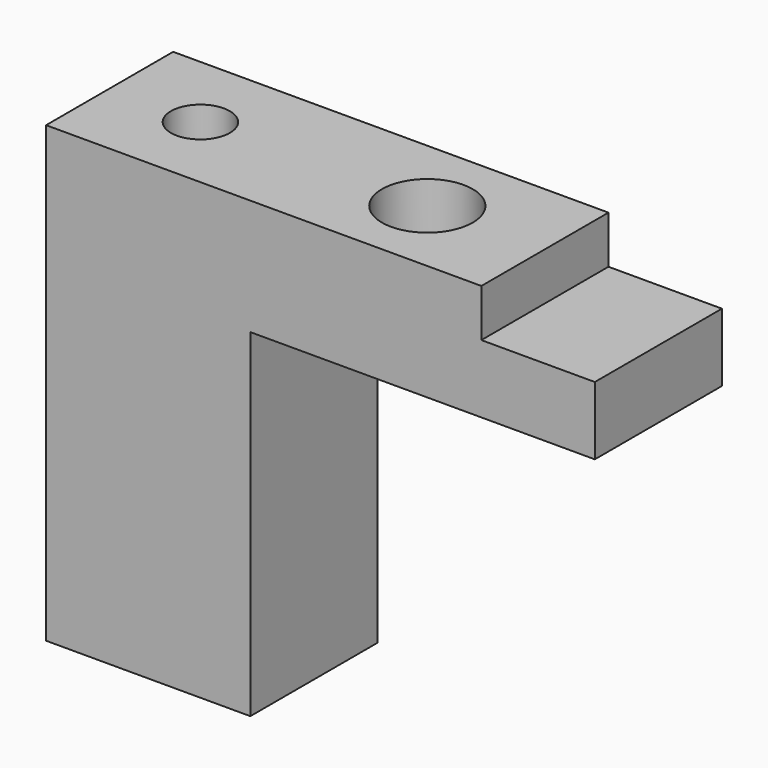
from build123d import *

# Parameters (mm, degrees)
PAD025_DEPTH      = 3.5
PAD025_DEPTH_BACK = 3.5
SKETCH047_R       = 2
SKETCH047_R_2     = 1.3
POCKET_DEPTH      = 8
SKETCH049_R       = 1.3
POCKET001_DEPTH   = 8


with BuildPart() as part:
    # Sketch → Pad025 (new body, two sides)
    with BuildSketch(Plane.XZ) as pad025_sk:
        Polygon((-58.82, -4.5), (-58.82, -6.6), (-53.82, -6.6), (-53.82, -9.6), (-69, -9.6), (-69, -24.5), (-78, -24.5), (-78, -4.5), align=None)
    extrude(amount=PAD025_DEPTH)
    extrude(pad025_sk.sketch, amount=-PAD025_DEPTH_BACK)

    # Sketch047 → Pocket (cut)
    with BuildSketch(Plane(origin=(0, 0, -9.6), x_dir=(1, 0, 0), z_dir=(0, 0, -1))):
        with Locations((-64, 0)):
            Circle(SKETCH047_R)
        with Locations((-74, 0)):
            Circle(SKETCH047_R_2)
    extrude(amount=-POCKET_DEPTH, mode=Mode.SUBTRACT)

    # Sketch049 → Pocket001 (cut)
    with BuildSketch(Plane(origin=(-78, 0, 0), x_dir=(0, 0, -1), z_dir=(-1, 0, 0))):
        with Locations((18, 0)):
            Circle(SKETCH049_R)
    extrude(amount=-POCKET001_DEPTH, mode=Mode.SUBTRACT)


with BuildPart() as part_1:
    # Clone007 placement: moved
    add(part.part.moved(Location((0, 53, 0))))


solid = part_1.part
